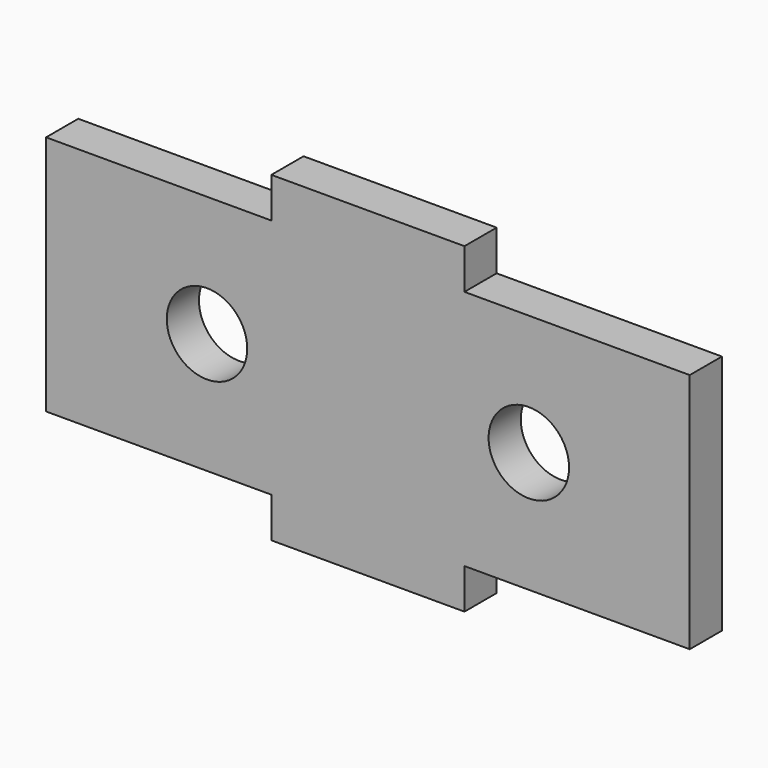
from build123d import *

# Parameters (mm, degrees)
F0_R     = 3.175
F1_DEPTH = 3.175


with BuildPart() as f1:
    # F0 (on Front) → F1 (new body)
    with BuildSketch(Plane.XZ):
        Polygon((-7.62, -12.695253), (7.62, -12.695253), (7.62, -9.525), (25.4, -9.525), (25.4, -6.35), (25.4, 6.357342), (25.4, 9.525), (7.62, 9.525), (7.62, 12.7), (-7.62, 12.7), (-7.62, 9.525), (-25.4, 9.525), (-25.4, 6.355764), (-25.4, -6.35), (-25.4, -9.525), (-7.62, -9.525), align=None)
        with Locations((-12.7, 0)):
            Circle(F0_R, mode=Mode.SUBTRACT)
        with Locations((12.7, 0)):
            Circle(F0_R, mode=Mode.SUBTRACT)
    extrude(amount=F1_DEPTH)


solid = f1.part
